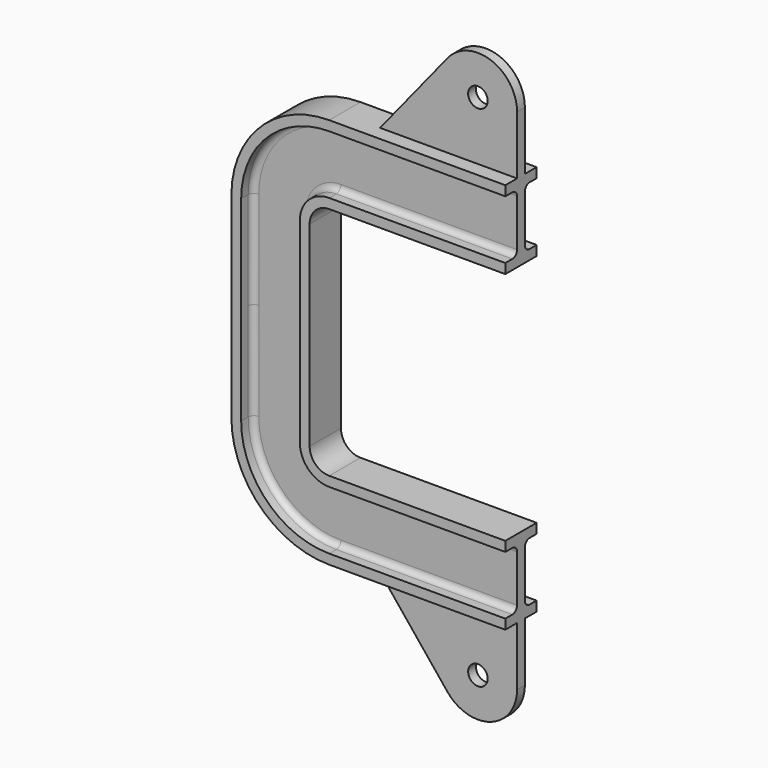
from build123d import *

# Parameters (mm, degrees)
F4_R     = 5
F5_DEPTH = 2.5


with BuildPart() as f2:
    # F2: sweep along a path in F0
    with BuildLine(Plane.XZ) as f2_path:
        Line((0, 60), (-90, 60))
        ThreePointArc((-90, 60), (-97.071068, 57.071068), (-100, 50))
        Line((-100, 50), (-100, 0))
    # F1 (on Right) → F2 (sweep)
    with BuildSketch(Plane.YZ):
        with BuildLine():
            Line((10, 100), (0, 100))
            Line((0, 100), (-10, 100))
            Line((-10, 100), (-10, 95))
            Line((-10, 95), (-5.5, 95))
            ThreePointArc((-5.5, 95), (-3.37868, 94.12132), (-2.5, 92))
            Line((-2.5, 92), (-2.5, 68))
            ThreePointArc((-2.5, 68), (-3.37868, 65.87868), (-5.5, 65))
            Line((-5.5, 65), (-10, 65))
            Line((-10, 65), (-10, 60))
            Line((-10, 60), (0, 60))
            Line((0, 60), (10, 60))
            Line((10, 60), (10, 65))
            Line((10, 65), (5.5, 65))
            ThreePointArc((5.5, 65), (3.37868, 65.87868), (2.5, 68))
            Line((2.5, 68), (2.5, 92))
            ThreePointArc((2.5, 92), (3.37868, 94.12132), (5.5, 95))
            Line((5.5, 95), (10, 95))
            Line((10, 95), (10, 100))
        make_face()
    sweep(path=f2_path.line)

    # F3: F2 across plane


with BuildPart() as f2_1:
    add(f2.part)
    add(f2.part.mirror(Plane.XY))

    # F4 (on Front) → F5 (join, symmetric)
    with BuildSketch(Plane.XZ):
        with BuildLine():
            Line((0, -130), (0, -100))
            Line((0, -100), (-70, -100))
            Line((-70, -100), (-35.548045, -142.580075))
            ThreePointArc((-35.548045, -142.580075), (-13.327703, -148.854189), (0, -130))
        make_face()
        with Locations((-20, -130)):
            Circle(F4_R, mode=Mode.SUBTRACT)
    extrude(amount=F5_DEPTH, both=True)

    # F6: F2 across plane


with BuildPart() as f2_2:
    add(f2_1.part)
    add(f2_1.part.mirror(Plane.XY))


solid = f2_2.part
